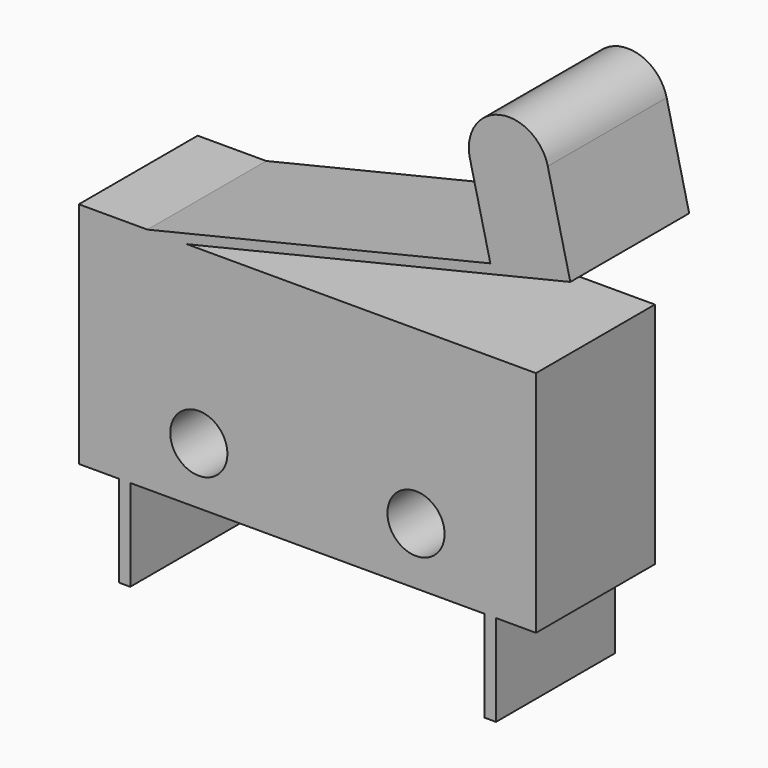
from build123d import *

# Parameters (mm, degrees)
F0_R     = 1.25
F0_W     = 0.5
F0_H     = 4
F1_DEPTH = 3.25


with BuildPart() as f1:
    # F0 (on Front) → F1 (new body, symmetric)
    with BuildSketch(Plane.XZ):
        Polygon((-7, 10), (-10, 10), (-10, 0), (-8.25, 0), (-7.75, 0), (7.75, 0), (8.25, 0), (10, 0), (10, 10), (-5.275428, 10), align=None)
        with Locations((-4.75, 2.5)):
            Circle(F0_R, mode=Mode.SUBTRACT)
        with Locations((4.75, 2.5)):
            Circle(F0_R, mode=Mode.SUBTRACT)
        with BuildLine():
            Line((8.002669, 13.577296), (-7, 10))
            Line((-7, 10), (-5.275428, 10))
            Line((-5.275428, 10), (11.5, 14))
            Line((11.5, 14), (10.514248, 18.134101))
            ThreePointArc((10.514248, 18.134101), (8.406074, 19.430481), (7.109694, 17.322306))
            Line((7.109694, 17.322306), (8.002669, 13.577296))
        make_face()
        with Locations((-8, -2)):
            Rectangle(F0_W, F0_H)
        with Locations((8, -2)):
            Rectangle(F0_W, F0_H)
    extrude(amount=F1_DEPTH, both=True)


solid = f1.part
